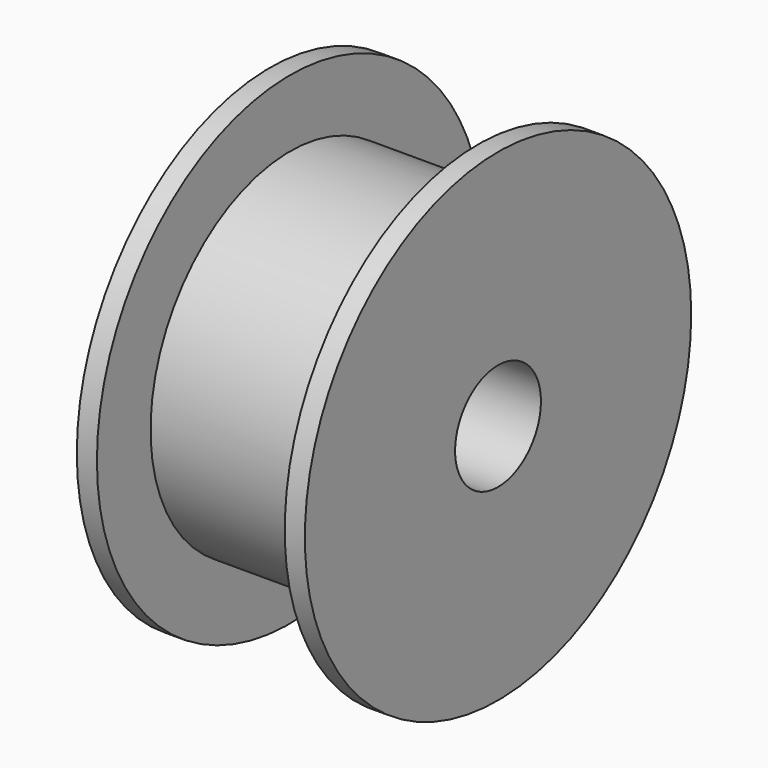
from build123d import *

# Parameters (mm, degrees)
F0_R          = 6.5
F1_DEPTH      = 3.5
F1_DEPTH_BACK = 3.5
F2_R          = 9
F3_DEPTH      = 0.75
F4_R          = 9
F5_DEPTH      = 0.75
F6_R          = 2
F7_DEPTH      = 25
F7_DEPTH_BACK = 25


with BuildPart() as f1:
    # F0 (on Right) → F1 (new body, two sides)
    with BuildSketch(Plane.YZ) as f1_sk:
        Circle(F0_R)
    extrude(amount=F1_DEPTH)
    extrude(f1_sk.sketch, amount=-F1_DEPTH_BACK)

    # F2 (on face) → F3 (join)
    with BuildSketch(Plane.YZ.offset(3.5)):
        Circle(F2_R)
    extrude(amount=F3_DEPTH)

    # F4 (on face) → F5 (join)
    with BuildSketch(Plane(origin=(-3.5, 0, 0), x_dir=(0, -1, 0), z_dir=(-1, 0, 0))):
        Circle(F4_R)
    extrude(amount=F5_DEPTH)

    # F6 (on Right) → F7 (cut, two sides)
    with BuildSketch(Plane.YZ) as f7_sk:
        Circle(F6_R)
    extrude(amount=-F7_DEPTH, mode=Mode.SUBTRACT)
    extrude(f7_sk.sketch, amount=F7_DEPTH_BACK, mode=Mode.SUBTRACT)


solid = f1.part
